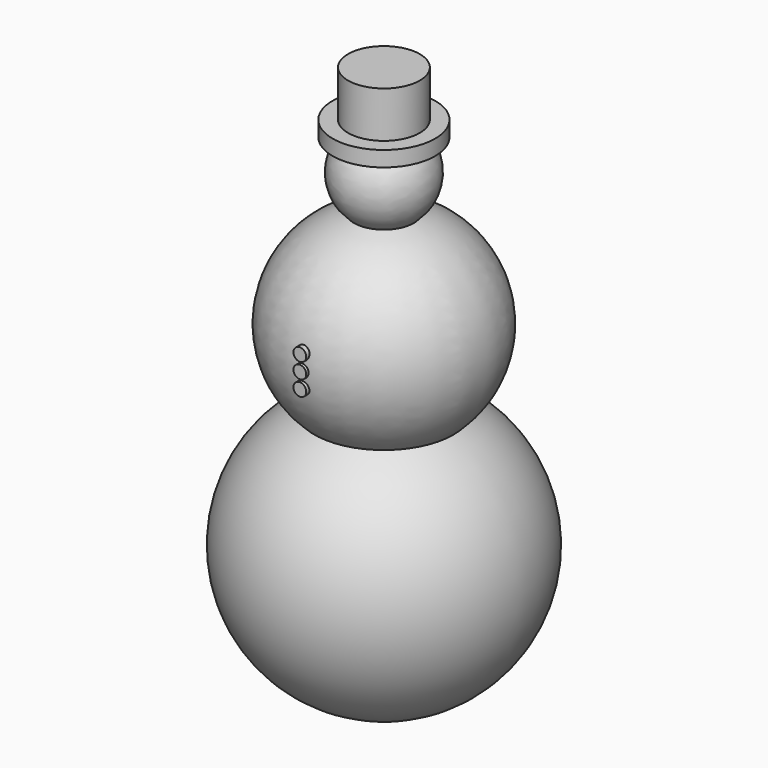
from build123d import *

# Parameters (mm, degrees)
F4_R     = 1.25
F5_DEPTH = 20.5


with BuildPart() as f1:
    # F0 (on Front) → F1 (revolve)
    with BuildSketch(Plane.XZ):
        with BuildLine():
            Line((0, 100), (0, 0))
            ThreePointArc((0, 0), (26.066085, 19.96017), (13.592653, 50.328947))
            ThreePointArc((13.592653, 50.328947), (19.491374, 69.48178), (5.819493, 84.134615))
            ThreePointArc((5.819493, 84.134615), (8.449511, 94.099318), (0, 100))
        make_face()
    revolve(axis=Axis((0, 0, 50), (0, 0, 1)))


with BuildPart() as f3:
    # F2 (on Front) → F3 (revolve)
    with BuildSketch(Plane.XZ):
        Polygon((0, 109), (0, 97), (10, 97), (10, 100), (7, 100), (7, 109), align=None)
    revolve(axis=Axis((0, 0, 54.5), (0, 0, 1)))


with BuildPart() as f5:
    # F4 (on Front) → F5 (new body)
    with BuildSketch(Plane.XZ):
        with Locations((0, 68)):
            Circle(F4_R)
        with Locations((0, 65)):
            Circle(F4_R)
        with Locations((0, 62)):
            Circle(F4_R)
    extrude(amount=F5_DEPTH)


solid = Compound([f1.part, f3.part, f5.part])
